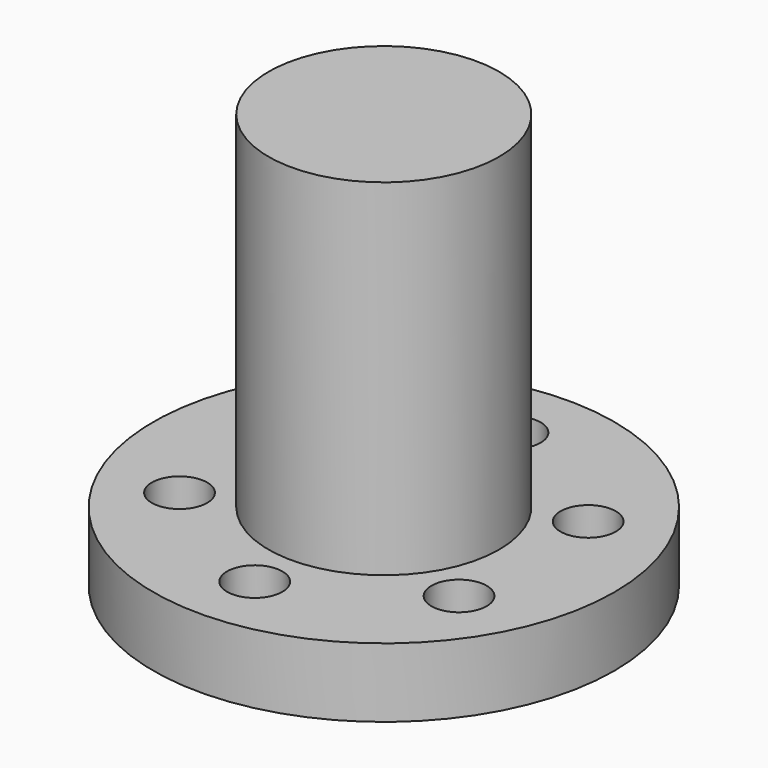
from build123d import *

# Parameters (mm, degrees)
F0_R     = 50
F0_R_2   = 6
F1_DEPTH = 15
F2_R     = 25
F3_DEPTH = 75


with BuildPart() as f1:
    # F0 (on Top) → F1 (new body)
    with BuildSketch(Plane.XY):
        Circle(F0_R)
        with Locations((-30.310889, -17.5)):
            Circle(F0_R_2, mode=Mode.SUBTRACT)
        with Locations((0, -35)):
            Circle(F0_R_2, mode=Mode.SUBTRACT)
        with Locations((30.310889, -17.5)):
            Circle(F0_R_2, mode=Mode.SUBTRACT)
        with Locations((-30.310889, 17.5)):
            Circle(F0_R_2, mode=Mode.SUBTRACT)
        with Locations((30.310889, 17.5)):
            Circle(F0_R_2, mode=Mode.SUBTRACT)
        with Locations((0, 35)):
            Circle(F0_R_2, mode=Mode.SUBTRACT)
    extrude(amount=F1_DEPTH)

    # F2 (on face) → F3 (join)
    with BuildSketch(Plane.XY.offset(15)):
        Circle(F2_R)
    extrude(amount=F3_DEPTH)


solid = f1.part
